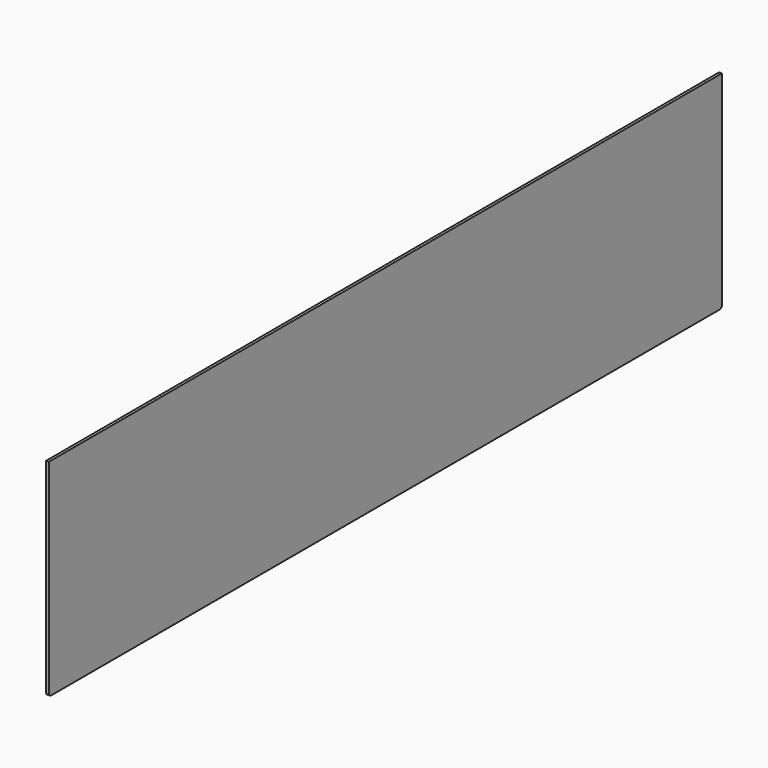
from build123d import *

# Parameters (mm, degrees)
F0_W     = 600
F0_H     = 147.5
F1_DEPTH = 2
F2_R     = 2


with BuildPart() as f1:
    # F0 (on Right) → F1 (new body)
    with BuildSketch(Plane.YZ):
        Rectangle(F0_W, F0_H)
    extrude(amount=F1_DEPTH)

    # F2
    f2_edges = [f1.edges().sort_by_distance(p)[0] for p in [
        (1, -300, -73.75),
        (1, 300, -73.75),
    ]]
    fillet(f2_edges, radius=F2_R)


solid = f1.part
